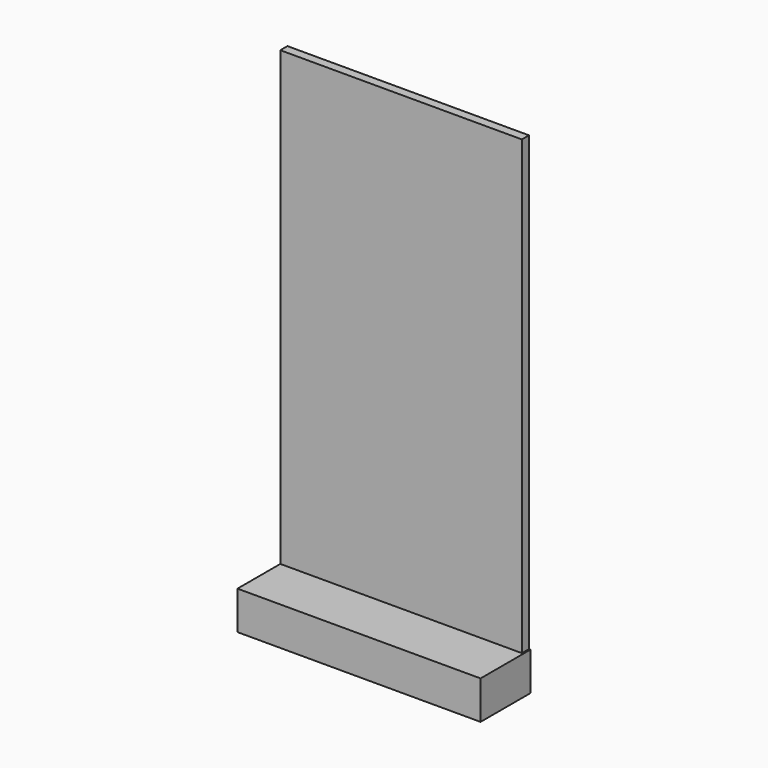
from build123d import *

# Parameters (mm, degrees)
F0_W     = 68.784848
F0_H     = 128.761858
F1_DEPTH = 2.54
F2_DEPTH = 17.78


with BuildPart() as f1:
    # F0 (on Front) → F1 (new body)
    with BuildSketch(Plane.XZ):
        Rectangle(F0_W, F0_H)
    extrude(amount=F1_DEPTH)

    # F0 (on Front) → F2 (join)
    with BuildSketch(Plane.XZ):
        Polygon((34.392424, -64.380929), (-34.392424, -64.380929), (-34.392424, -75.285852), (34.811836, -75.285852), (34.811836, -64.380929), align=None)
    extrude(amount=F2_DEPTH)


solid = f1.part
